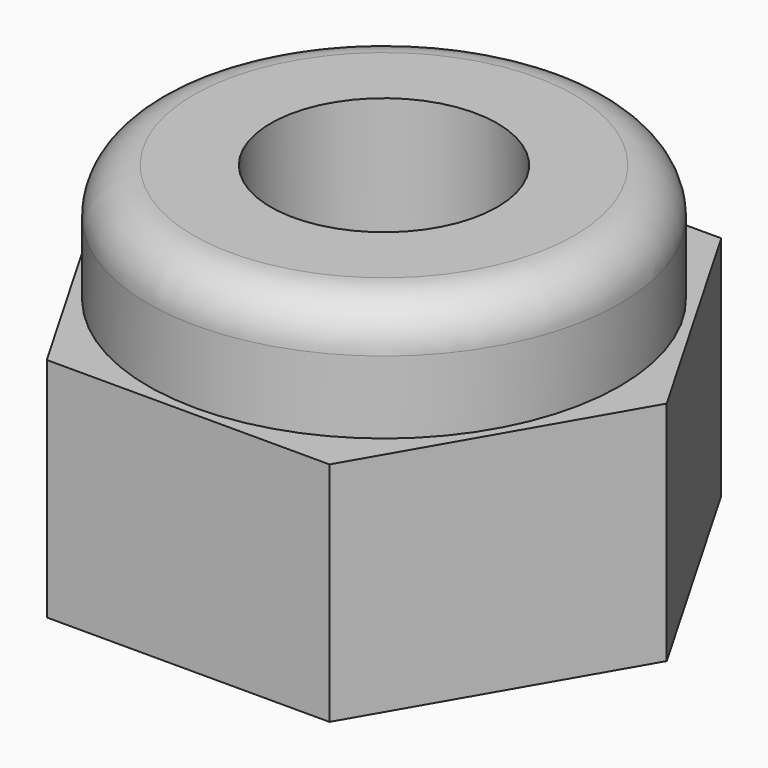
from build123d import *

# Parameters (mm, degrees)
F1_DEPTH = 2.5
F2_R     = 2.6
F2_R_2   = 1.25
F3_DEPTH = 3.8
F4_DEPTH = 25
F5_R     = 0.5


with BuildPart() as f1:
    # F0 (on Top) → F1 (new body)
    with BuildSketch(Plane.XY):
        Polygon((-1.558846, -2.7), (1.558846, -2.7), (3.117691, 0), (1.558846, 2.7), (-1.558846, 2.7), (-3.117691, 0), align=None)
    extrude(amount=F1_DEPTH)

    # F2 (on face) → F3 (join)
    with BuildSketch(Plane(origin=(0, 0, 0), x_dir=(1, 0, 0), z_dir=(0, 0, -1))):
        Circle(F2_R)
        Circle(F2_R_2, mode=Mode.SUBTRACT)
    extrude(amount=-F3_DEPTH)

    # F2 (on face) → F4 (cut)
    with BuildSketch(Plane(origin=(0, 0, 0), x_dir=(1, 0, 0), z_dir=(0, 0, -1))):
        Circle(F2_R_2)
    extrude(amount=-F4_DEPTH, mode=Mode.SUBTRACT)

    # F5
    f5_edges = [f1.edges().sort_by_distance(p)[0] for p in [
        (-2.6, 0, 3.8),
    ]]
    fillet(f5_edges, radius=F5_R)


solid = f1.part
